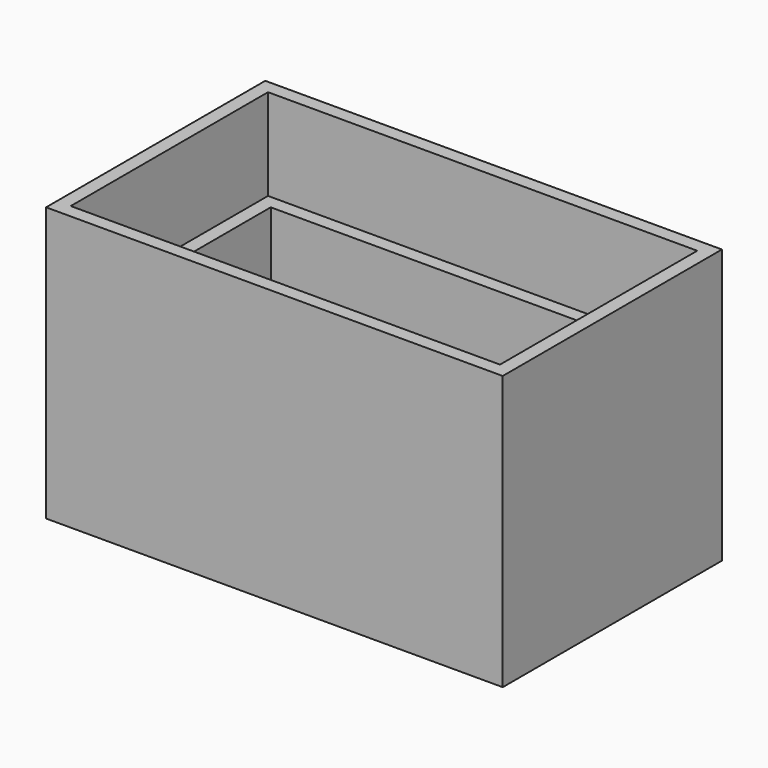
from build123d import *

# Parameters (mm, degrees)
SKETCH_W        = 50
SKETCH_H        = 30
PAD_DEPTH       = 30
SKETCH002_W     = 44
SKETCH002_H     = 24
POCKET_DEPTH    = 27
SKETCH003_W     = 47
SKETCH003_H     = 27
POCKET001_DEPTH = 10
SKETCH005_W     = 5
SKETCH005_H     = 5
SKETCH005_R     = 0.5
PAD001_DEPTH    = 5


with BuildPart() as pad001body:
    # Sketch → Pad (new body)
    with BuildSketch(Plane.XY):
        Rectangle(SKETCH_W, SKETCH_H)
    extrude(amount=PAD_DEPTH)

    # Sketch002 (on Face6 of Pad) → Pocket (cut)
    with BuildSketch(Plane.XY.offset(30)):
        Rectangle(SKETCH002_W, SKETCH002_H)
    extrude(amount=-POCKET_DEPTH, mode=Mode.SUBTRACT)

    # Sketch003 (on Face5 of Pocket) → Pocket001 (cut)
    with BuildSketch(Plane.XY.offset(30)):
        Rectangle(SKETCH003_W, SKETCH003_H)
    extrude(amount=-POCKET001_DEPTH, mode=Mode.SUBTRACT)

    # Sketch005 (on Face16 of Pocket001) → Pad001 (new body)
    with BuildSketch(Plane.XY.offset(3)):
        with Locations((-19.5, 9.5)):
            Rectangle(SKETCH005_W, SKETCH005_H)
        with Locations((-19.5, 9.5)):
            Circle(SKETCH005_R, mode=Mode.SUBTRACT)
    extrude(amount=PAD001_DEPTH)


with BuildPart() as part_mirroring:
    # Part__Mirroring: instance of Pad001Body
    add(pad001body.part.mirror(Plane(origin=(0, 0, 0), x_dir=(0, -1, 0), z_dir=(1, 0, 0))))


with BuildPart() as part_mirroring001:
    # Part__Mirroring001: instance of Part__Mirroring
    add(part_mirroring.part.mirror(Plane(origin=(0, 0, 0), x_dir=(1, 0, 0), z_dir=(0, 1, 0))))


with BuildPart() as part_mirroring002:
    # Part__Mirroring002: instance of Pad001Body
    add(pad001body.part.mirror(Plane(origin=(0, 0, 0), x_dir=(1, 0, 0), z_dir=(0, 1, 0))))


solid = Compound([part_mirroring001.part, part_mirroring002.part])
